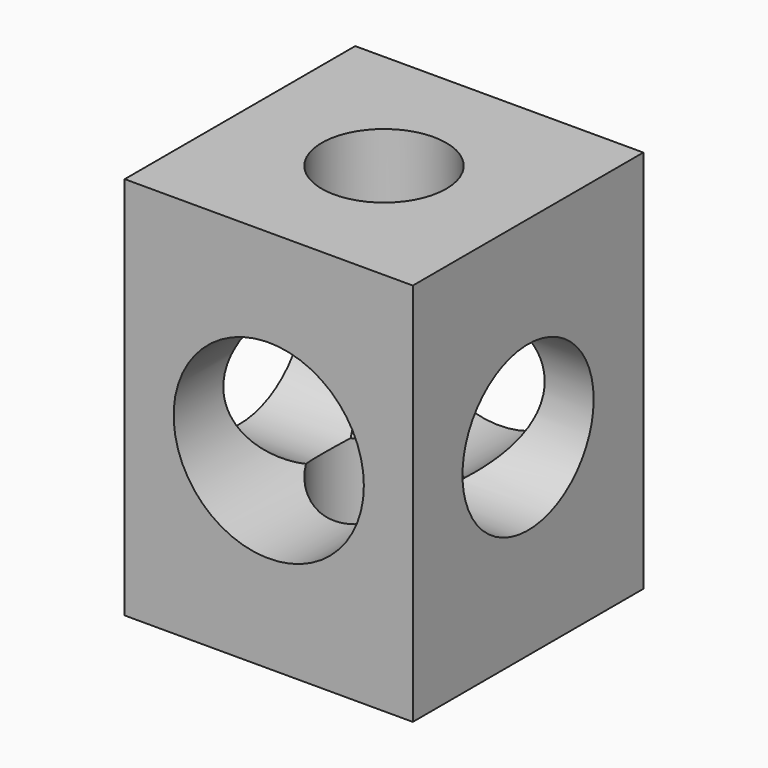
from build123d import *

# Parameters (mm, degrees)
F0_W     = 150
F0_H     = 150
F1_DEPTH = 100
F2_R     = 32.421721
F3_DEPTH = 250
F4_R     = 42.676612
F5_DEPTH = 250
F6_R     = 49.517774
F7_DEPTH = 250


with BuildPart() as f1:
    # F0 (on Top) → F1 (new body, symmetric)
    with BuildSketch(Plane.XY):
        Rectangle(F0_W, F0_H)
    extrude(amount=F1_DEPTH, both=True)

    # F2 (on Top) → F3 (cut, symmetric)
    with BuildSketch(Plane.XY):
        Circle(F2_R)
    extrude(amount=F3_DEPTH, both=True, mode=Mode.SUBTRACT)

    # F4 (on Right) → F5 (cut, symmetric)
    with BuildSketch(Plane.YZ):
        Circle(F4_R)
    extrude(amount=F5_DEPTH, both=True, mode=Mode.SUBTRACT)

    # F6 (on Front) → F7 (cut, symmetric)
    with BuildSketch(Plane.XZ):
        Circle(F6_R)
    extrude(amount=F7_DEPTH, both=True, mode=Mode.SUBTRACT)


solid = f1.part
